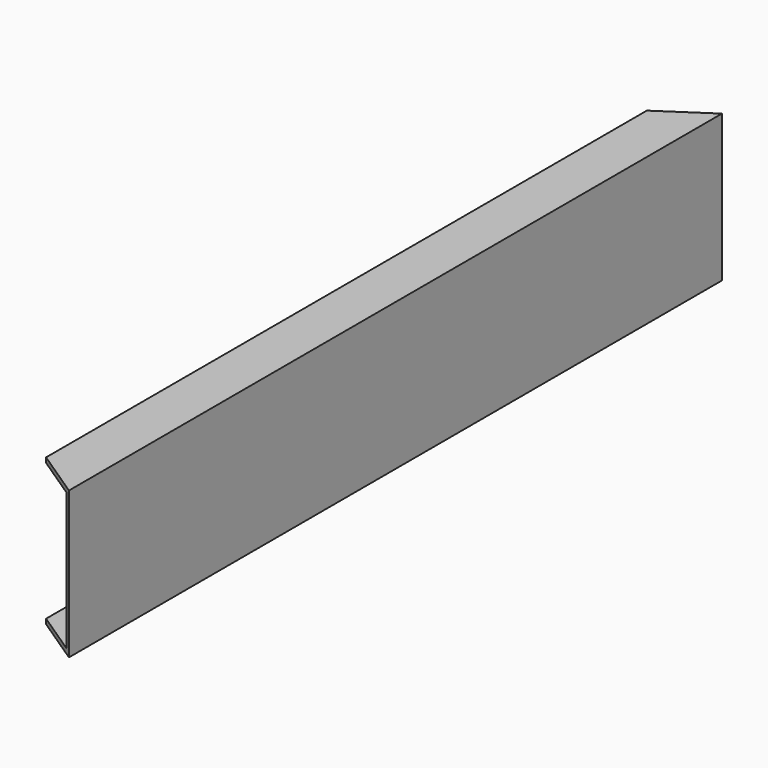
from build123d import *

# Parameters (mm, degrees)
F1_DEPTH = 1000
F3_DEPTH = 180.001


with BuildPart() as f1:
    # F0 (on Front) → F1 (new body)
    with BuildSketch(Plane.XZ):
        Polygon((0, 6), (0, 0), (60, 0), (60, 180), (0, 180), (0, 174), (54, 174), (54, 6), align=None)
    extrude(amount=F1_DEPTH)

    # F2 (on face) → F3 (cut, through all)
    with BuildSketch(Plane.XY.offset(180)):
        Polygon((60, -1000), (0, -960), (0, -1000), align=None)
        Polygon((0, 0), (0, -40), (60, 0), align=None)
    extrude(amount=-F3_DEPTH, mode=Mode.SUBTRACT)


solid = f1.part
